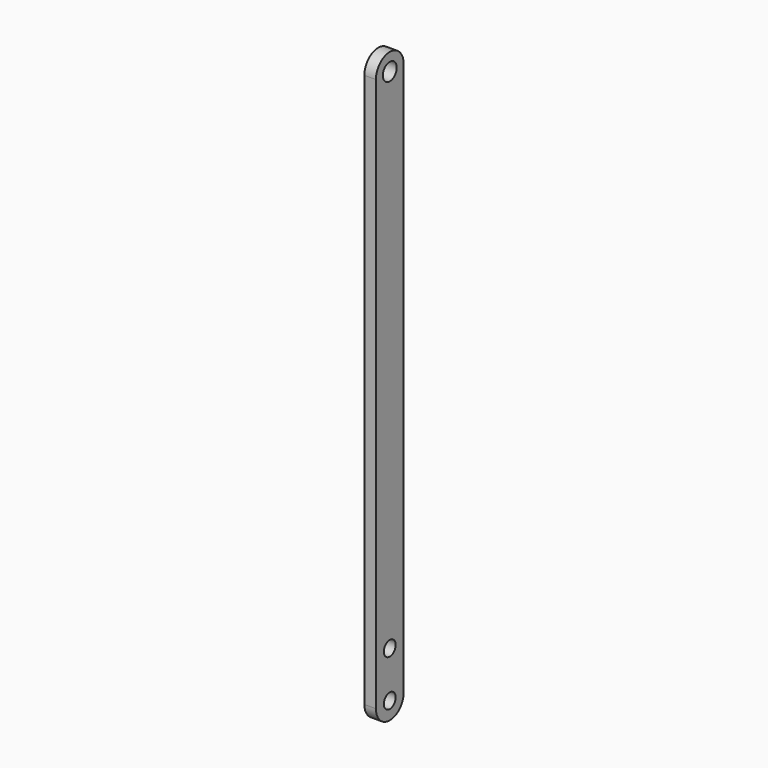
from build123d import *

# Parameters (mm, degrees)
F0_R     = 2.38125
F0_R_2   = 2.032
F1_DEPTH = 3.175


with BuildPart() as f1:
    # F0 (on Right) → F1 (new body)
    with BuildSketch(Plane.YZ):
        with BuildLine():
            ThreePointArc((-4.7625, 152.4), (0, 147.6375), (4.7625, 152.4))
            ThreePointArc((4.7625, 152.4), (0, 157.1625), (-4.7625, 152.4))
        make_face()
        with Locations((0, 152.4)):
            Circle(F0_R, mode=Mode.SUBTRACT)
        with BuildLine():
            Line((4.7625, 0), (4.7625, 152.4))
            ThreePointArc((4.7625, 152.4), (0, 147.6375), (-4.7625, 152.4))
            Line((-4.7625, 152.4), (-4.7625, 0))
            ThreePointArc((-4.7625, 0), (0, -4.7625), (4.7625, 0))
        make_face()
        Circle(F0_R_2, mode=Mode.SUBTRACT)
        with Locations((0, 12.7)):
            Circle(F0_R_2, mode=Mode.SUBTRACT)
    extrude(amount=F1_DEPTH)


solid = f1.part
